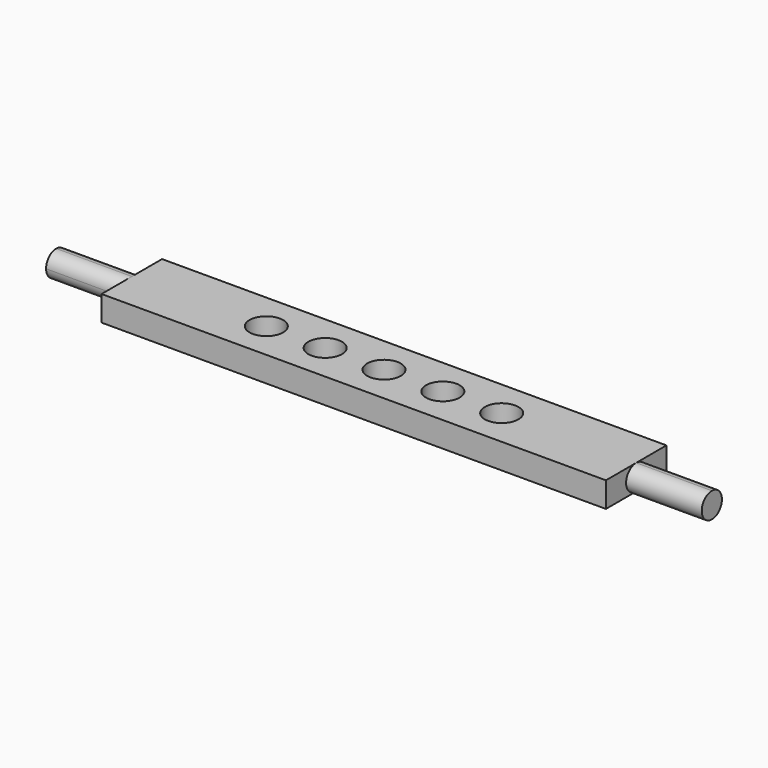
from build123d import *

# Parameters (mm, degrees)
F0_W     = 60
F0_H     = 9
F0_R     = 2
F1_DEPTH = 3
F3_DEPTH = 9
F5_DEPTH = 9


with BuildPart() as f1:
    # F0 (on Top) → F1 (new body)
    with BuildSketch(Plane.XY):
        Rectangle(F0_W, F0_H)
        with Locations((-14, 0)):
            Circle(F0_R, mode=Mode.SUBTRACT)
        with Locations((-7, 0)):
            Circle(F0_R, mode=Mode.SUBTRACT)
        Circle(F0_R, mode=Mode.SUBTRACT)
        with Locations((7, 0)):
            Circle(F0_R, mode=Mode.SUBTRACT)
        with Locations((14, 0)):
            Circle(F0_R, mode=Mode.SUBTRACT)
    extrude(amount=F1_DEPTH)

    # F2 (on face) → F3 (join)
    with BuildSketch(Plane(origin=(-30, 0, 0), x_dir=(0, -1, 0), z_dir=(-1, 0, 0))):
        with BuildLine():
            ThreePointArc((0, 0), (1.06066, 0.43934), (1.5, 1.5))
            ThreePointArc((1.5, 1.5), (1.06066, 2.56066), (0, 3))
            ThreePointArc((0, 3), (-1.5, 1.5), (0, 0))
        make_face()
    extrude(amount=F3_DEPTH)

    # F4 (on face) → F5 (join)
    with BuildSketch(Plane.YZ.offset(30)):
        with BuildLine():
            ThreePointArc((0, 0), (1.06066, 0.43934), (1.5, 1.5))
            ThreePointArc((1.5, 1.5), (1.06066, 2.56066), (0, 3))
            ThreePointArc((0, 3), (-1.5, 1.5), (0, 0))
        make_face()
    extrude(amount=F5_DEPTH)


solid = f1.part
